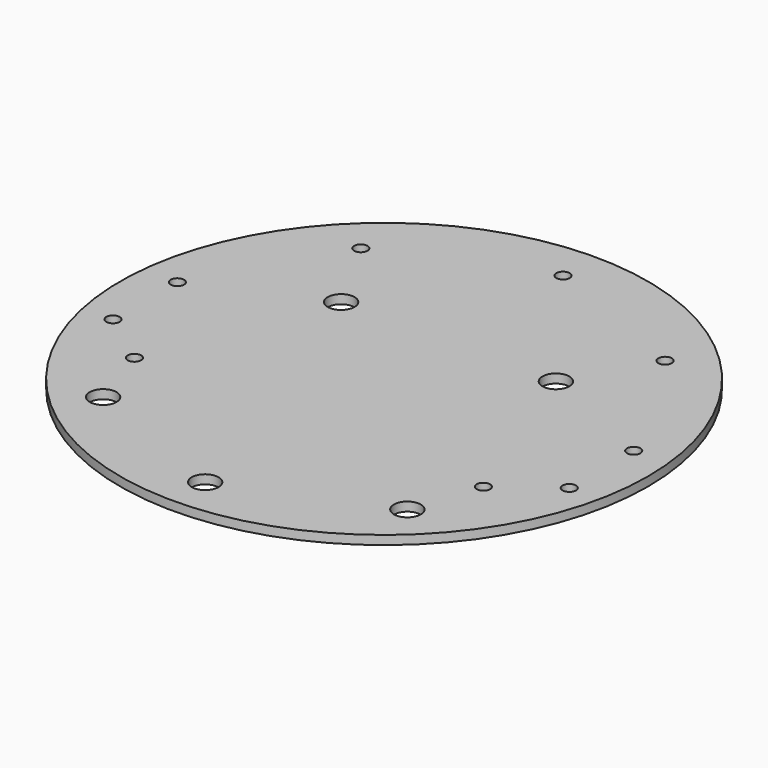
from build123d import *

# Parameters (mm, degrees)
CYLINDER529_R     = 1.5
CYLINDER529_DEPTH = 100
CYLINDER528_R     = 1.5
CYLINDER528_DEPTH = 100
CYLINDER367_R     = 3
CYLINDER367_DEPTH = 4
CYLINDER365_R     = 1.5
CYLINDER365_DEPTH = 50
CYLINDER360_R     = 3
CYLINDER360_DEPTH = 4
CYLINDER359_R     = 3
CYLINDER359_DEPTH = 4
CYLINDER356_R     = 3
CYLINDER356_DEPTH = 4
CYLINDER353_R     = 3
CYLINDER353_DEPTH = 4
CYLINDER350_R     = 1.5
CYLINDER350_DEPTH = 50
CYLINDER349_R     = 1.5
CYLINDER349_DEPTH = 50
CYLINDER347_R     = 1.5
CYLINDER347_DEPTH = 50
CYLINDER348_R     = 1.5
CYLINDER348_DEPTH = 50
CYLINDER346_R     = 1.5
CYLINDER346_DEPTH = 100
CYLINDER345_R     = 1.5
CYLINDER345_DEPTH = 100
CYLINDER287_R     = 59
CYLINDER287_DEPTH = 2


with BuildPart() as obj1:
    # Cylinder529 → Cylinder529 (new body)
    with BuildSketch(Plane(origin=(39, -21, 0), x_dir=(1, 0, 0), z_dir=(0, 0, 1))):
        Circle(CYLINDER529_R)
    extrude(amount=CYLINDER529_DEPTH)


with BuildPart() as compound:
    # Cylinder528 → Cylinder528 (new body)
    with BuildSketch(Plane(origin=(-39, -21, 0), x_dir=(1, 0, 0), z_dir=(0, 0, 1))):
        Circle(CYLINDER528_R)
    extrude(amount=CYLINDER528_DEPTH)

    # Compound: union obj1
    add(obj1.part)


with BuildPart() as obj2:
    # Cylinder367 → Cylinder367 (new body)
    with BuildSketch(Plane(origin=(0, -50, 9), x_dir=(1, 0, 0), z_dir=(0, 0, 1))):
        Circle(CYLINDER367_R)
    extrude(amount=CYLINDER367_DEPTH)


with BuildPart() as obj3:
    # Cylinder365 → Cylinder365 (new body)
    with BuildSketch(Plane(origin=(0, 50, 0), x_dir=(1, 0, 0), z_dir=(0, 0, 1))):
        Circle(CYLINDER365_R)
    extrude(amount=CYLINDER365_DEPTH)


with BuildPart() as obj4:
    # Cylinder360 → Cylinder360 (new body)
    with BuildSketch(Plane(origin=(-34, -36, 0), x_dir=(1, 0, 0), z_dir=(0, 0, 1))):
        Circle(CYLINDER360_R)
    extrude(amount=CYLINDER360_DEPTH)


with BuildPart() as compound305:
    # Cylinder359 → Cylinder359 (new body)
    with BuildSketch(Plane(origin=(34, -36, 0), x_dir=(1, 0, 0), z_dir=(0, 0, 1))):
        Circle(CYLINDER359_R)
    extrude(amount=CYLINDER359_DEPTH)

    # Compound305: union obj4
    add(obj4.part)


with BuildPart() as compound305_1:
    # Compound305 placement: moved
    add(compound305.part.moved(Location((0, 0, 9))))


with BuildPart() as obj5:
    # Cylinder356 → Cylinder356 (new body)
    with BuildSketch(Plane(origin=(24, 18, 0), x_dir=(1, 0, 0), z_dir=(0, 0, 1))):
        Circle(CYLINDER356_R)
    extrude(amount=CYLINDER356_DEPTH)


with BuildPart() as compound304:
    # Cylinder353 → Cylinder353 (new body)
    with BuildSketch(Plane(origin=(-24, 18, 0), x_dir=(1, 0, 0), z_dir=(0, 0, 1))):
        Circle(CYLINDER353_R)
    extrude(amount=CYLINDER353_DEPTH)

    # Compound304: union obj5
    add(obj5.part)


with BuildPart() as compound304_1:
    # Compound304 placement: moved
    add(compound304.part.moved(Location((0, 0, 10))))


with BuildPart() as obj6:
    # Cylinder350 → Cylinder350 (new body)
    with BuildSketch(Plane(origin=(-34, 36, 0), x_dir=(1, 0, 0), z_dir=(0, 0, 1))):
        Circle(CYLINDER350_R)
    extrude(amount=CYLINDER350_DEPTH)


with BuildPart() as obj7:
    # Cylinder349 → Cylinder349 (new body)
    with BuildSketch(Plane(origin=(34, 36, 0), x_dir=(1, 0, 0), z_dir=(0, 0, 1))):
        Circle(CYLINDER349_R)
    extrude(amount=CYLINDER349_DEPTH)


with BuildPart() as obj8:
    # Cylinder347 → Cylinder347 (new body)
    with BuildSketch(Plane(origin=(51, 6, 0), x_dir=(1, 0, 0), z_dir=(0, 0, 1))):
        Circle(CYLINDER347_R)
    extrude(amount=CYLINDER347_DEPTH)


with BuildPart() as obj9:
    # Cylinder348 → Cylinder348 (new body)
    with BuildSketch(Plane(origin=(-51, 6, 0), x_dir=(1, 0, 0), z_dir=(0, 0, 1))):
        Circle(CYLINDER348_R)
    extrude(amount=CYLINDER348_DEPTH)


with BuildPart() as obj10:
    # Cylinder346 → Cylinder346 (new body)
    with BuildSketch(Plane(origin=(51, -12, 0), x_dir=(1, 0, 0), z_dir=(0, 0, 1))):
        Circle(CYLINDER346_R)
    extrude(amount=CYLINDER346_DEPTH)


with BuildPart() as compound302:
    # Cylinder345 → Cylinder345 (new body)
    with BuildSketch(Plane(origin=(-51, -12, 0), x_dir=(1, 0, 0), z_dir=(0, 0, 1))):
        Circle(CYLINDER345_R)
    extrude(amount=CYLINDER345_DEPTH)

    # Compound302: union obj6, obj7, obj8, obj9, obj10
    add(obj6.part)
    add(obj7.part)
    add(obj8.part)
    add(obj9.part)
    add(obj10.part)


with BuildPart() as cut160:
    # Cylinder287 → Cylinder287 (new body)
    with BuildSketch(Plane.XY.offset(10)):
        Circle(CYLINDER287_R)
    extrude(amount=CYLINDER287_DEPTH)

    # Cut148: cut Compound302
    add(compound302.part, mode=Mode.SUBTRACT)

    # Cut149: cut Compound304
    add(compound304_1.part, mode=Mode.SUBTRACT)

    # Cut150: cut Compound305
    add(compound305_1.part, mode=Mode.SUBTRACT)

    # Cut155: cut obj3
    add(obj3.part, mode=Mode.SUBTRACT)

    # Cut157: cut obj2
    add(obj2.part, mode=Mode.SUBTRACT)

    # Cut160: cut Compound
    add(compound.part, mode=Mode.SUBTRACT)


solid = cut160.part
